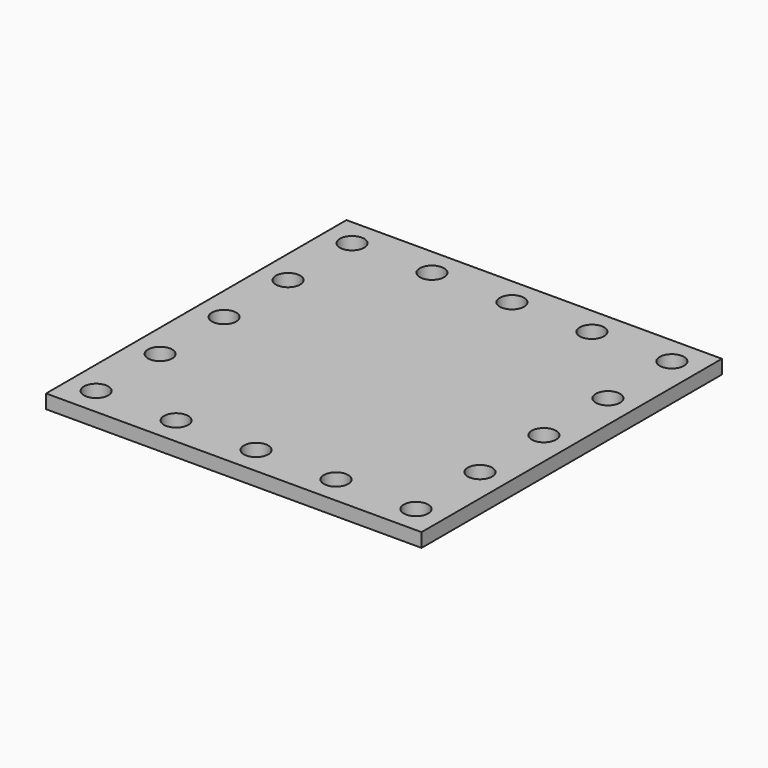
from build123d import *

# Parameters (mm, degrees)
PAD003_DEPTH = 2
SKETCH013_W  = 54
SKETCH013_H  = 54
SKETCH013_R  = 1.75
PAD004_DEPTH = 2


with BuildPart() as part:
    # Sketch016 → Pad003 (new body)
    with BuildSketch(Plane.XY.offset(7)):
        with BuildLine():
            ThreePointArc((26, 0), (24.828437, 2.828417), (22.000028, 4))
            Line((22.000028, 4), (0, 4))
            ThreePointArc((0, 4), (-2.828427, 2.828427), (-4, 0))
            Line((-4, 0), (-4, -22.000028))
            ThreePointArc((-4, -22.000028), (-2.828417, -24.828437), (0, -26))
            Line((0, -26), (22.000028, -26))
            ThreePointArc((22.000028, -26), (24.828427, -24.828427), (26, -22.000028))
            Line((26, -22.000028), (26, 0))
        make_face()
    extrude(amount=PAD003_DEPTH)

    # Sketch014 → AdditiveLoft section 0
    with BuildSketch(Plane.XY.offset(12)):
        with BuildLine():
            ThreePointArc((23.2, 0), (22.848528, 0.848529), (21.999999, 1.2))
            Line((21.999999, 1.2), (0, 1.2))
            ThreePointArc((0, 1.2), (-0.848528, 0.848528), (-1.2, 0))
            Line((-1.2, 0), (-1.2, -21.999999))
            ThreePointArc((-1.2, -21.999999), (-0.848529, -22.848528), (0, -23.2))
            Line((0, -23.2), (21.999999, -23.2))
            ThreePointArc((21.999999, -23.2), (22.848528, -22.848528), (23.2, -21.999999))
            Line((23.2, -21.999999), (23.2, 0))
        make_face()
    # Sketch015 → AdditiveLoft section 1
    with BuildSketch(Plane.XY.offset(7)):
        with BuildLine():
            ThreePointArc((23.2, 0), (22.848528, 0.848529), (21.999999, 1.2))
            Line((21.999999, 1.2), (0, 1.2))
            ThreePointArc((0, 1.2), (-0.848528, 0.848528), (-1.2, 0))
            Line((-1.2, 0), (-1.2, -21.999999))
            ThreePointArc((-1.2, -21.999999), (-0.848529, -22.848528), (0, -23.2))
            Line((0, -23.2), (21.999999, -23.2))
            ThreePointArc((21.999999, -23.2), (22.848528, -22.848528), (23.2, -21.999999))
            Line((23.2, -21.999999), (23.2, 0))
        make_face()
    loft()

    # Sketch013 → Pad004 (join)
    with BuildSketch(Plane.XY.offset(12)):
        with Locations((11, -11)):
            Rectangle(SKETCH013_W, SKETCH013_H)
        with Locations((-12, 12)):
            Circle(SKETCH013_R, mode=Mode.SUBTRACT)
        with Locations((34, 12)):
            Circle(SKETCH013_R, mode=Mode.SUBTRACT)
        with Locations((34, -34)):
            Circle(SKETCH013_R, mode=Mode.SUBTRACT)
        with Locations((-12, -34)):
            Circle(SKETCH013_R, mode=Mode.SUBTRACT)
        with Locations((34, -11)):
            Circle(SKETCH013_R, mode=Mode.SUBTRACT)
        with Locations((34, 0.5)):
            Circle(SKETCH013_R, mode=Mode.SUBTRACT)
        with Locations((34, -22.5)):
            Circle(SKETCH013_R, mode=Mode.SUBTRACT)
        with Locations((22.5, -34)):
            Circle(SKETCH013_R, mode=Mode.SUBTRACT)
        with Locations((11, -34)):
            Circle(SKETCH013_R, mode=Mode.SUBTRACT)
        with Locations((-0.5, -34)):
            Circle(SKETCH013_R, mode=Mode.SUBTRACT)
        with Locations((-12, -22.5)):
            Circle(SKETCH013_R, mode=Mode.SUBTRACT)
        with Locations((-12, -11)):
            Circle(SKETCH013_R, mode=Mode.SUBTRACT)
        with Locations((-12, 0.5)):
            Circle(SKETCH013_R, mode=Mode.SUBTRACT)
        with Locations((11, 12)):
            Circle(SKETCH013_R, mode=Mode.SUBTRACT)
        with Locations((22.5, 12)):
            Circle(SKETCH013_R, mode=Mode.SUBTRACT)
        with Locations((-0.5, 12)):
            Circle(SKETCH013_R, mode=Mode.SUBTRACT)
    extrude(amount=PAD004_DEPTH)


solid = part.part
